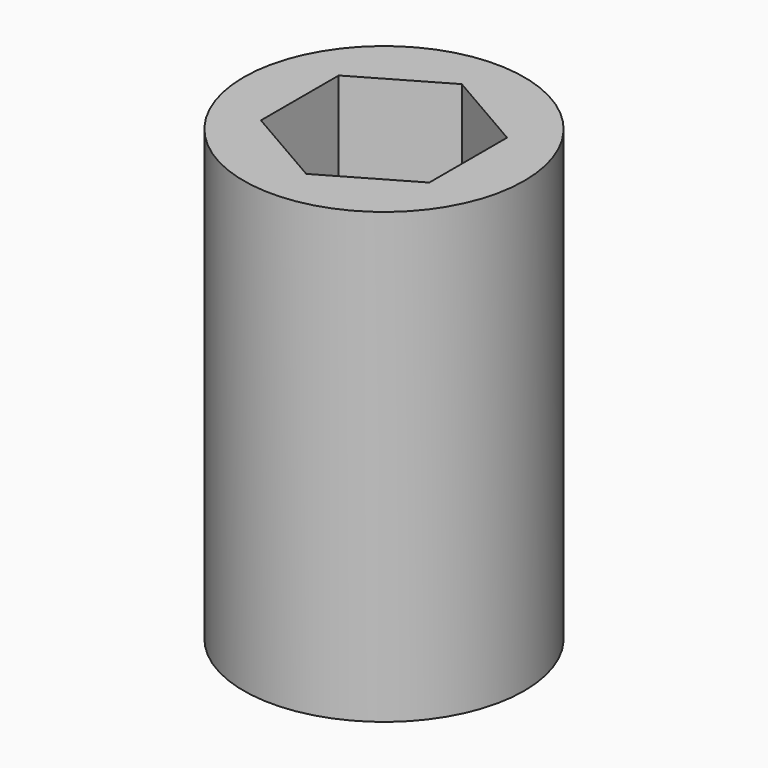
from build123d import *

# Parameters (mm, degrees)
F0_R     = 2.5
F1_DEPTH = 8
F3_DEPTH = 5
F5_D     = 2
F5_DEPTH = 1
F5_TIP   = 0.600860619


with BuildPart() as f1:
    # F0 (on Top) → F1 (new body)
    with BuildSketch(Plane.XY):
        Circle(F0_R)
    extrude(amount=F1_DEPTH)

    # F2 (on face) → F3 (cut)
    with BuildSketch(Plane.XY.offset(8)):
        Polygon((1.5, -0.8660254038), (1.5, 0.8660254038), (0, 1.7320508076), (-1.5, 0.8660254038), (-1.5, -0.8660254038), (0, -1.7320508076), align=None)
    extrude(amount=-F3_DEPTH, mode=Mode.SUBTRACT)

    # F5
    with Locations(Plane(origin=(0, 0, 0), x_dir=(1, 0, 0), z_dir=(0, 0, -1))):
        with Locations((0, 0)):
            Hole(F5_D / 2, depth=F5_DEPTH)
            with Locations((0, 0, -(F5_DEPTH + F5_TIP / 2))):  # 118° drill point
                Cone(0, F5_D / 2, F5_TIP, mode=Mode.SUBTRACT)


solid = f1.part
